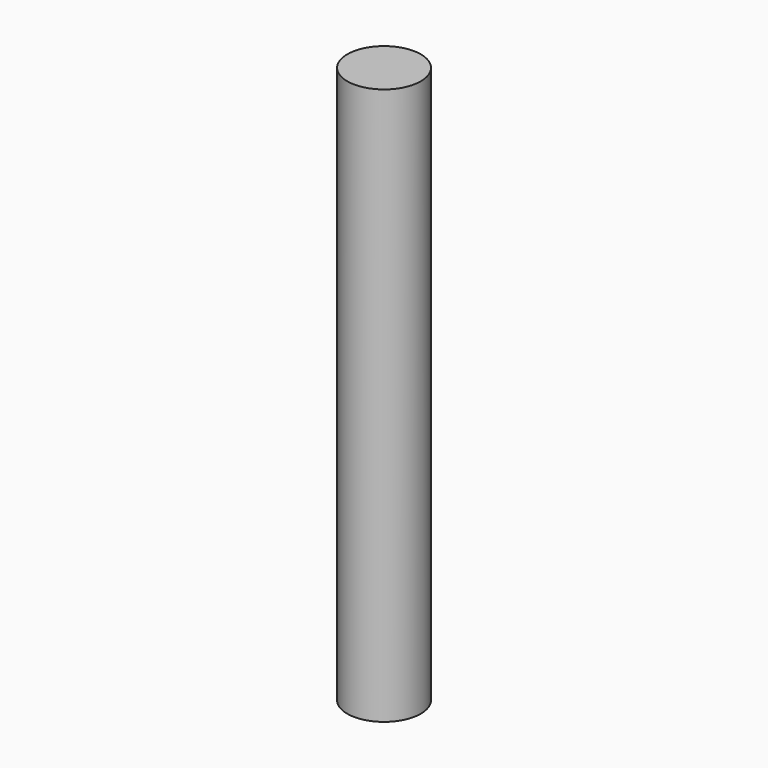
from build123d import *

# Parameters (mm, degrees)
F4_R     = 3.175
F5_DEPTH = 50.8


with BuildPart() as f2:
    # F0 (on Front) → F2 (revolve)
    with BuildSketch(Plane.XZ):
        with BuildLine():
            Line((0, -9.525), (0, 9.525))
            ThreePointArc((0, 9.525), (-9.525, 0), (0, -9.525))
        make_face()
    revolve(axis=Axis((0, 0, 0), (0, 0, 1)))


with BuildPart() as f5:
    # F4 (on offset) → F5 (new body)
    with BuildSketch(Plane.XY.offset(6.35)):
        Circle(F4_R)
    extrude(amount=F5_DEPTH)

    # F6: cut F2
    add(f2.part, mode=Mode.SUBTRACT)


solid = f5.part
